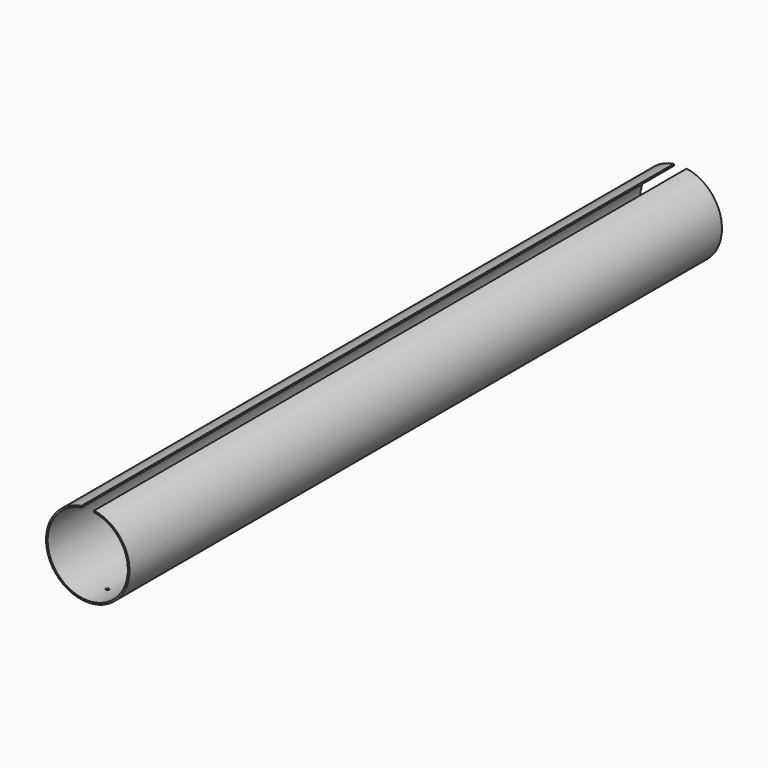
from build123d import *

# Parameters (mm, degrees)
F1_DEPTH = 1524
F2_R     = 3.175
F3_DEPTH = 381


with BuildPart() as f1:
    # F0 (on Front) → F1 (new body)
    with BuildSketch(Plane.XZ):
        with BuildLine():
            Line((-12.7, 81.567227), (-13.208, 84.829916))
            ThreePointArc((-13.208, 84.829916), (0, -85.852), (13.208, 84.829916))
            Line((13.208, 84.829916), (12.7, 81.567227))
            ThreePointArc((12.7, 81.567227), (0, -82.55), (-12.7, 81.567227))
        make_face()
    extrude(amount=-F1_DEPTH)

    # F2 (on Top) → F3 (cut, symmetric)
    with BuildSketch(Plane.XY):
        with Locations((0, 50.8)):
            Circle(F2_R)
    extrude(amount=F3_DEPTH, both=True, mode=Mode.SUBTRACT)


solid = f1.part
